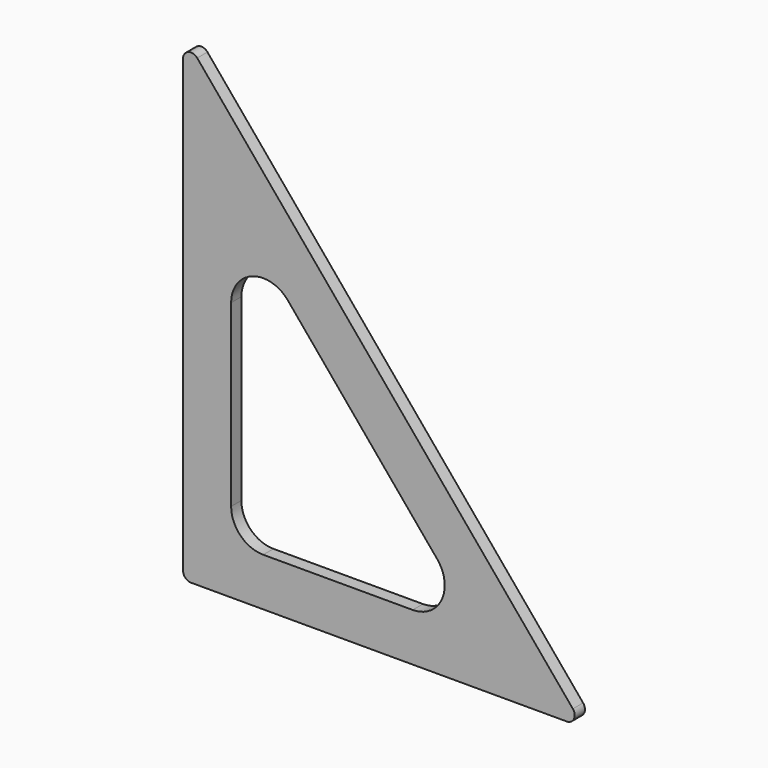
from build123d import *

# Parameters (mm, degrees)
F1_DEPTH = 8
F2_R     = 20
F3_R     = 5


with BuildPart() as f1:
    # F0 (on Front) → F1 (new body)
    with BuildSketch(Plane.XZ):
        Polygon((250, 0), (0, 300), (0, 0), align=None)
        Polygon((30, 30), (30, 217.138502), (185.948752, 30), align=None, mode=Mode.SUBTRACT)
    extrude(amount=F1_DEPTH)

    # F2
    f2_edges = [f1.edges().sort_by_distance(p)[0] for p in [
        (30, -4, 30),
        (185.948752, -4, 30),
        (30, -4, 217.138502),
    ]]
    fillet(f2_edges, radius=F2_R)

    # F3
    f3_edges = [f1.edges().sort_by_distance(p)[0] for p in [
        (250, -4, 0),
        (0, -4, 300),
        (0, -4, 0),
    ]]
    fillet(f3_edges, radius=F3_R)


solid = f1.part
